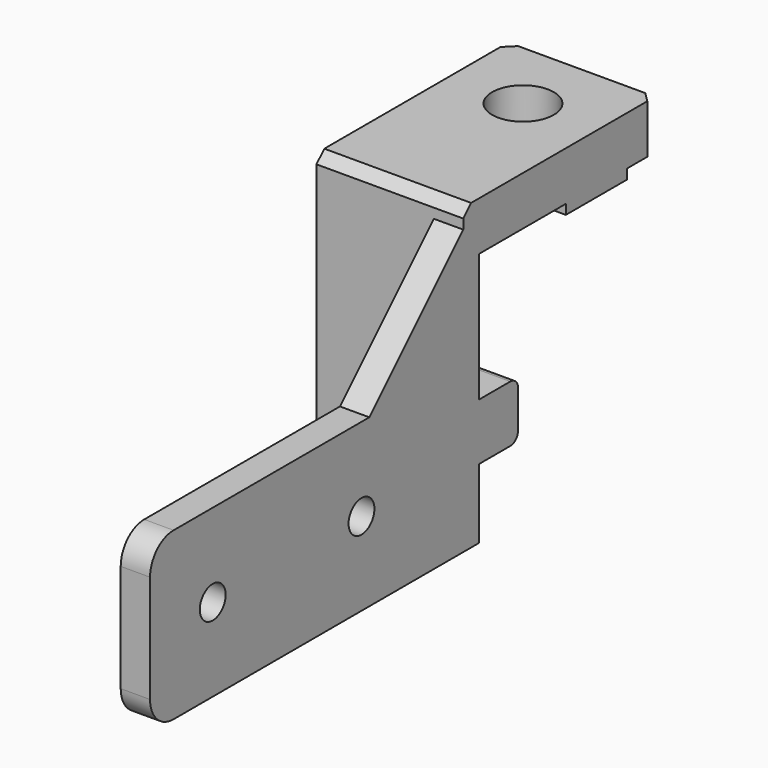
from build123d import *

# Parameters (mm, degrees)
BOX055_W           = 15
BOX055_H           = 2
BOX055_DEPTH       = 26
FILLET005015025_R  = 3
BOX058_W           = 15
BOX058_H           = 6
BOX058_DEPTH       = 5.8
FILLET005015028_R  = 1
CYLINDER021_R      = 3.15
CYLINDER021_DEPTH  = 10
BOX054_W           = 15
BOX054_H           = 24.5
BOX054_DEPTH       = 5
CHAMFER010013_SIZE = 1
BOX057_W           = 15
BOX057_H           = 7.8
BOX057_DEPTH       = 2
CYLINDER023_R      = 1.65
CYLINDER023_DEPTH  = 14
CYLINDER022_R      = 1.65
CYLINDER022_DEPTH  = 14
BOX056_W           = 3
BOX056_H           = 40
BOX056_DEPTH       = 17
FILLET005015024_R  = 3
CHAMFER010014_SIZE = 12
CHAMFER010015_SIZE = 1


with BuildPart() as fillet005015025:
    # Box055 → Box055 (new body)
    with BuildSketch(Plane(origin=(34, 26, 3), x_dir=(1, 0, 0), z_dir=(0, 0, 1))):
        with Locations((7.5, 1)):
            Rectangle(BOX055_W, BOX055_H)
    extrude(amount=BOX055_DEPTH)

    # Fillet005015025
    fillet005015025_edges = [fillet005015025.edges().sort_by_distance(p)[0] for p in [
        (34, 27, 3),
    ]]
    fillet(fillet005015025_edges, radius=FILLET005015025_R)


with BuildPart() as fillet005015028:
    # Box058 → Box058 (new body)
    with BuildSketch(Plane(origin=(34, 27, 10.1), x_dir=(1, 0, 0), z_dir=(0, 0, 1))):
        with Locations((7.5, 3)):
            Rectangle(BOX058_W, BOX058_H)
    extrude(amount=BOX058_DEPTH)

    # Fillet005015028
    fillet005015028_edges = [fillet005015028.edges().sort_by_distance(p)[0] for p in [
        (41.5, 33, 10.1),
        (41.5, 33, 15.9),
    ]]
    fillet(fillet005015028_edges, radius=FILLET005015028_R)


with BuildPart() as cylinder021:
    # Cylinder021 → Cylinder021 (new body)
    with BuildSketch(Plane(origin=(41.5, 43, 25), x_dir=(1, 0, 0), z_dir=(0, 0, 1))):
        Circle(CYLINDER021_R)
    extrude(amount=CYLINDER021_DEPTH)


with BuildPart() as chamfer010013:
    # Box054 → Box054 (new body)
    with BuildSketch(Plane(origin=(34, 26, 29), x_dir=(1, 0, 0), z_dir=(0, 0, 1))):
        with Locations((7.5, 12.25)):
            Rectangle(BOX054_W, BOX054_H)
    extrude(amount=BOX054_DEPTH)

    # Chamfer010013
    chamfer010013_edges = [chamfer010013.edges().sort_by_distance(p)[0] for p in [
        (34, 50.5, 31.5),
        (49, 50.5, 31.5),
    ]]
    chamfer(chamfer010013_edges, length=CHAMFER010013_SIZE)


with BuildPart() as cut019003006:
    # Box057 → Box057 (new body)
    with BuildSketch(Plane(origin=(34, 39.1, 28), x_dir=(1, 0, 0), z_dir=(0, 0, 1))):
        with Locations((7.5, 3.9)):
            Rectangle(BOX057_W, BOX057_H)
    extrude(amount=BOX057_DEPTH)

    # Fusion001021004009015012: union Chamfer010013
    add(chamfer010013.part)

    # Cut019003006: cut Cylinder021
    add(cylinder021.part, mode=Mode.SUBTRACT)


with BuildPart() as cylinder023:
    # Cylinder023 → Cylinder023 (new body)
    with BuildSketch(Plane(origin=(37, 13, 11.5), x_dir=(0, 0, -1), z_dir=(1, 0, 0))):
        Circle(CYLINDER023_R)
    extrude(amount=CYLINDER023_DEPTH)


with BuildPart() as fusion001021004009015011:
    # Cylinder022 → Cylinder022 (new body)
    with BuildSketch(Plane(origin=(37, -6, 11.5), x_dir=(0, 0, -1), z_dir=(1, 0, 0))):
        Circle(CYLINDER022_R)
    extrude(amount=CYLINDER022_DEPTH)

    # Fusion001021004009015011: union Cylinder023
    add(cylinder023.part)


with BuildPart() as top_mount_arm_right:
    # Box056 → Box056 (new body)
    with BuildSketch(Plane(origin=(46, -14, 3), x_dir=(1, 0, 0), z_dir=(0, 0, 1))):
        with Locations((1.5, 20)):
            Rectangle(BOX056_W, BOX056_H)
    extrude(amount=BOX056_DEPTH)

    # Fillet005015024
    fillet005015024_edges = [top_mount_arm_right.edges().sort_by_distance(p)[0] for p in [
        (47.5, -14, 3),
        (47.5, -14, 20),
    ]]
    fillet(fillet005015024_edges, radius=FILLET005015024_R)

    # Cut019003007: cut Fusion001021004009015011
    add(fusion001021004009015011.part, mode=Mode.SUBTRACT)

    # Fusion001021004009015013: union Fillet005015025, Fillet005015028, Cut019003006
    add(fillet005015025.part)
    add(fillet005015028.part)
    add(cut019003006.part)

    # Chamfer010014
    chamfer010014_edges = [top_mount_arm_right.edges().sort_by_distance(p)[0] for p in [
        (47.5, 26, 20),
    ]]
    chamfer(chamfer010014_edges, length=CHAMFER010014_SIZE)

    # Chamfer010015
    chamfer010015_edges = [top_mount_arm_right.edges().sort_by_distance(p)[0] for p in [
        (41.5, 26, 34),
    ]]
    chamfer(chamfer010015_edges, length=CHAMFER010015_SIZE)


solid = top_mount_arm_right.part
